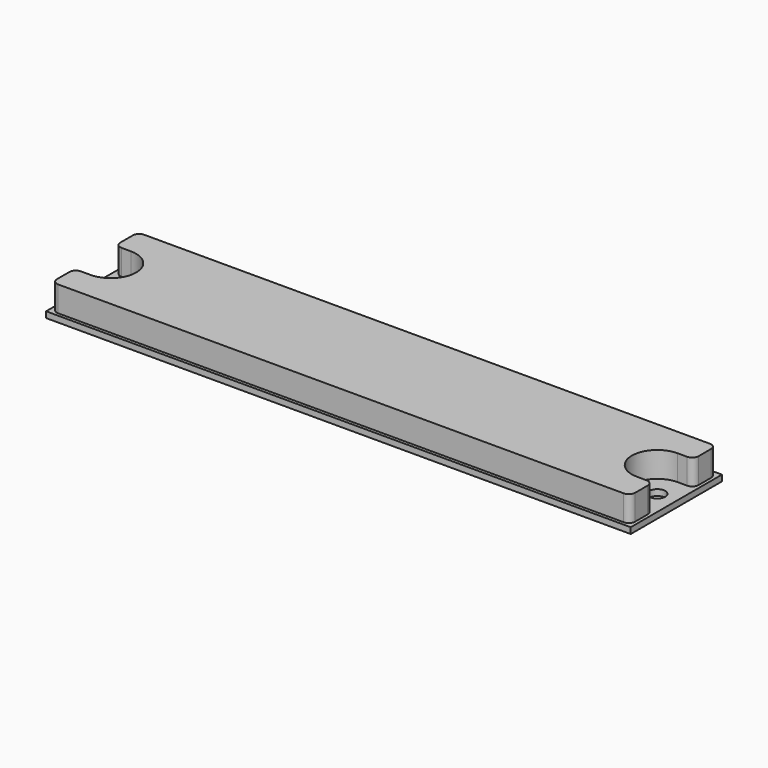
from build123d import *

# Parameters (mm, degrees)
F0_R     = 4.7625
F0_R_2   = 2
F1_DEPTH = 1.5
F3_DEPTH = 6.35


with BuildPart() as f1:
    # F0 (on Top) → F1 (new body)
    with BuildSketch(Plane.XY):
        with BuildLine():
            Line((-73.025, 14.2375), (-73.025, 6.35))
            Line((-73.025, 6.35), (-68.2625, 6.35))
            ThreePointArc((-68.2625, 6.35), (-61.9125, 0), (-68.2625, -6.35))
            Line((-68.2625, -6.35), (-73.025, -6.35))
            Line((-73.025, -6.35), (-73.025, -14.2375))
            Line((-73.025, -14.2375), (73.025, -14.2375))
            Line((73.025, -14.2375), (73.025, -6.35))
            Line((73.025, -6.35), (68.2625, -6.35))
            ThreePointArc((68.2625, -6.35), (61.9125, 0), (68.2625, 6.35))
            Line((68.2625, 6.35), (73.025, 6.35))
            Line((73.025, 6.35), (73.025, 14.2375))
            Line((73.025, 14.2375), (-73.025, 14.2375))
        make_face()
        with BuildLine():
            Line((-73.025, 6.35), (-73.025, 2.98e-08))
            Line((-73.025, 2.98e-08), (-73.025, -6.35))
            Line((-73.025, -6.35), (-68.2625, -6.35))
            ThreePointArc((-68.2625, -6.35), (-61.9125, 0), (-68.2625, 6.35))
            Line((-68.2625, 6.35), (-73.025, 6.35))
        make_face()
        with BuildLine():
            ThreePointArc((-73.025, 2.98e-08), (-68.2624999851, 4.7625), (-63.5, 0))
            ThreePointArc((-63.5, 0), (-68.2625000149, -4.7625), (-73.025, 2.98e-08))
        make_face(mode=Mode.SUBTRACT)
        with BuildLine():
            Line((-73.025, 6.35), (-73.025, 2.98e-08))
            Line((-73.025, 2.98e-08), (-73.025, -6.35))
            Line((-73.025, -6.35), (-68.2625, -6.35))
            ThreePointArc((-68.2625, -6.35), (-61.9125, 0), (-68.2625, 6.35))
            Line((-68.2625, 6.35), (-73.025, 6.35))
        make_face()
        with BuildLine():
            ThreePointArc((-73.025, 2.98e-08), (-68.2624999851, 4.7625), (-63.5, 0))
            ThreePointArc((-63.5, 0), (-68.2625000149, -4.7625), (-73.025, 2.98e-08))
        make_face(mode=Mode.SUBTRACT)
        with BuildLine():
            Line((73.025, 0), (73.025, 6.35))
            Line((73.025, 6.35), (68.2625, 6.35))
            ThreePointArc((68.2625, 6.35), (61.9125, 0), (68.2625, -6.35))
            Line((68.2625, -6.35), (73.025, -6.35))
            Line((73.025, -6.35), (73.025, 0))
        make_face()
        with Locations((68.2625, 0)):
            Circle(F0_R, mode=Mode.SUBTRACT)
        with BuildLine():
            Line((73.025, 0), (73.025, 6.35))
            Line((73.025, 6.35), (68.2625, 6.35))
            ThreePointArc((68.2625, 6.35), (61.9125, 0), (68.2625, -6.35))
            Line((68.2625, -6.35), (73.025, -6.35))
            Line((73.025, -6.35), (73.025, 0))
        make_face()
        with Locations((68.2625, 0)):
            Circle(F0_R, mode=Mode.SUBTRACT)
        with BuildLine():
            ThreePointArc((-73.025, 2.98e-08), (-68.2625000149, -4.7625), (-63.5, 0))
            ThreePointArc((-63.5, 0), (-68.2624999851, 4.7625), (-73.025, 2.98e-08))
        make_face()
        with Locations((-68.2625, 0)):
            Circle(F0_R_2, mode=Mode.SUBTRACT)
        with BuildLine():
            ThreePointArc((-73.025, 2.98e-08), (-68.2625000149, -4.7625), (-63.5, 0))
            ThreePointArc((-63.5, 0), (-68.2624999851, 4.7625), (-73.025, 2.98e-08))
        make_face()
        with Locations((-68.2625, 0)):
            Circle(F0_R_2, mode=Mode.SUBTRACT)
        with Locations((68.2625, 0)):
            Circle(F0_R)
        with Locations((68.2625, 0)):
            Circle(F0_R_2, mode=Mode.SUBTRACT)
        with Locations((68.2625, 0)):
            Circle(F0_R)
        with Locations((68.2625, 0)):
            Circle(F0_R_2, mode=Mode.SUBTRACT)
    extrude(amount=F1_DEPTH)


with BuildPart() as f3:
    # F2 (on face) → F3 (new body)
    with BuildSketch(Plane.XY.offset(1.5)):
        with BuildLine():
            Line((70.637, -6.35), (68.2625, -6.35))
            ThreePointArc((68.2625, -6.35), (61.9125, 0), (68.2625, 6.35))
            Line((68.2625, 6.35), (70.637, 6.35))
            ThreePointArc((70.637, 6.35), (71.7598855685, 6.8151144315), (72.225, 7.938))
            Line((72.225, 7.938), (72.225, 11.8495))
            ThreePointArc((72.225, 11.8495), (71.7598855685, 12.9723855685), (70.637, 13.4375))
            Line((70.637, 13.4375), (-70.637, 13.4375))
            ThreePointArc((-70.637, 13.4375), (-71.7598855685, 12.9723855685), (-72.225, 11.8495))
            Line((-72.225, 11.8495), (-72.225, 7.938))
            ThreePointArc((-72.225, 7.938), (-71.7598855685, 6.8151144315), (-70.637, 6.35))
            Line((-70.637, 6.35), (-68.2625, 6.35))
            ThreePointArc((-68.2625, 6.35), (-61.9125, 0), (-68.2625, -6.35))
            Line((-68.2625, -6.35), (-70.637, -6.35))
            ThreePointArc((-70.637, -6.35), (-71.7598855685, -6.8151144315), (-72.225, -7.938))
            Line((-72.225, -7.938), (-72.225, -11.8495))
            ThreePointArc((-72.225, -11.8495), (-71.7598855685, -12.9723855685), (-70.637, -13.4375))
            Line((-70.637, -13.4375), (70.637, -13.4375))
            ThreePointArc((70.637, -13.4375), (71.7598855685, -12.9723855685), (72.225, -11.8495))
            Line((72.225, -11.8495), (72.225, -7.938))
            ThreePointArc((72.225, -7.938), (71.7598855685, -6.8151144315), (70.637, -6.35))
        make_face()
        with BuildLine():
            Line((70.637, -6.35), (68.2625, -6.35))
            ThreePointArc((68.2625, -6.35), (61.9125, 0), (68.2625, 6.35))
            Line((68.2625, 6.35), (70.637, 6.35))
            ThreePointArc((70.637, 6.35), (71.7598855685, 6.8151144315), (72.225, 7.938))
            Line((72.225, 7.938), (72.225, 11.8495))
            ThreePointArc((72.225, 11.8495), (71.7598855685, 12.9723855685), (70.637, 13.4375))
            Line((70.637, 13.4375), (-70.637, 13.4375))
            ThreePointArc((-70.637, 13.4375), (-71.7598855685, 12.9723855685), (-72.225, 11.8495))
            Line((-72.225, 11.8495), (-72.225, 7.938))
            ThreePointArc((-72.225, 7.938), (-71.7598855685, 6.8151144315), (-70.637, 6.35))
            Line((-70.637, 6.35), (-68.2625, 6.35))
            ThreePointArc((-68.2625, 6.35), (-61.9125, 0), (-68.2625, -6.35))
            Line((-68.2625, -6.35), (-70.637, -6.35))
            ThreePointArc((-70.637, -6.35), (-71.7598855685, -6.8151144315), (-72.225, -7.938))
            Line((-72.225, -7.938), (-72.225, -11.8495))
            ThreePointArc((-72.225, -11.8495), (-71.7598855685, -12.9723855685), (-70.637, -13.4375))
            Line((-70.637, -13.4375), (70.637, -13.4375))
            ThreePointArc((70.637, -13.4375), (71.7598855685, -12.9723855685), (72.225, -11.8495))
            Line((72.225, -11.8495), (72.225, -7.938))
            ThreePointArc((72.225, -7.938), (71.7598855685, -6.8151144315), (70.637, -6.35))
        make_face()
    extrude(amount=F3_DEPTH)


solid = Compound([f1.part, f3.part])
